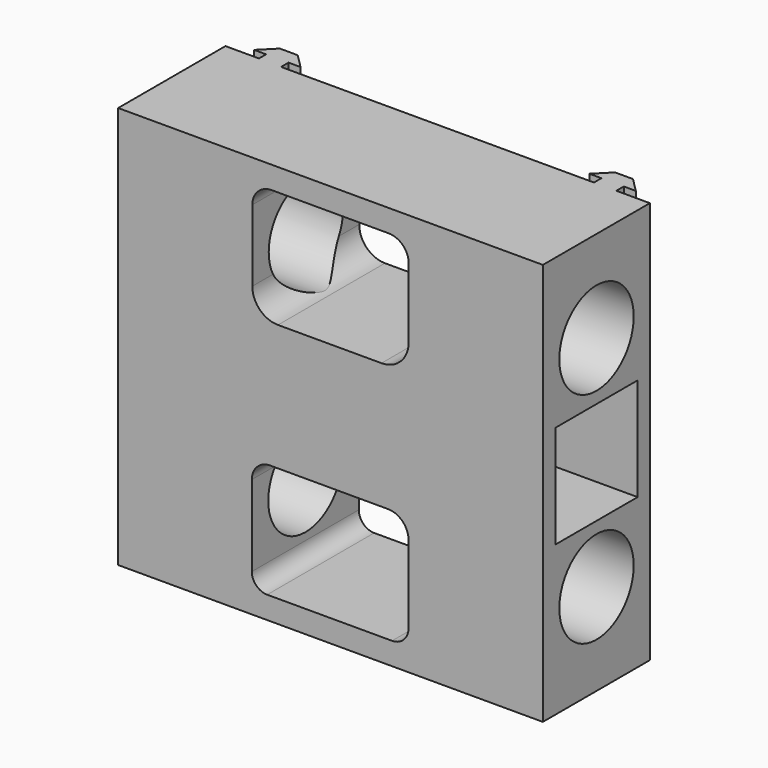
from build123d import *

# Parameters (mm, degrees)
PAD_DEPTH       = 90
SKETCH_R        = 5
SKETCH_R_2      = 1.5
SKETCH_R_3      = 10.4
POCKET_DEPTH    = 95
POCKET001_DEPTH = 32
SKETCH005_W     = 23
SKETCH005_H     = 23
POCKET002_DEPTH = 20
SKETCH006_W     = 23
SKETCH006_H     = 23
POCKET003_DEPTH = 20


with BuildPart() as part:
    # Sketch003 → Pad (new body)
    with BuildSketch(Plane.XY.offset(100)):
        Polygon((7.5, 0), (0, 0), (0, -30), (95, -30), (95, -0.086413), (87.5, -0.086413), (87.5, 2), (90.2, 2), (87, 5.2), (83, 5.2), (79.8, 2), (82.5, 2), (82.5, -0.086413), (12.5, -0.086413), (12.5, 2), (15.2, 2), (12, 5.2), (8, 5.2), (4.8, 2), (7.5, 2), align=None)
    extrude(amount=PAD_DEPTH)

    # Sketch (on Face4 of Pad) → Pocket (cut)
    with BuildSketch(Plane(origin=(95, 0, 100), x_dir=(0, 1, 0), z_dir=(1, 0, 0))):
        with Locations((-15, 45)):
            Circle(SKETCH_R)
        with Locations((-15, 52.5)):
            Circle(SKETCH_R_2)
        with Locations((-22.5, 45)):
            Circle(SKETCH_R_2)
        with Locations((-15, 37.5)):
            Circle(SKETCH_R_2)
        with Locations((-7.5, 45)):
            Circle(SKETCH_R_2)
        with Locations((-15, 20.5)):
            Circle(SKETCH_R_3)
        with Locations((-15, 69.5)):
            Circle(SKETCH_R_3)
    extrude(amount=-POCKET_DEPTH, mode=Mode.SUBTRACT)

    # Sketch004 (on Face7 of Pocket) → Pocket001 (cut)
    with BuildSketch(Plane(origin=(0, -30, 100), x_dir=(1, 0, 0), z_dir=(0, -1, 0))):
        with BuildLine():
            Line((30, 80.681485), (30, 64.654132))
            ThreePointArc((30, 64.654132), (31.683486, 60.589837), (35.747781, 58.906351))
            Line((35.747781, 58.906351), (58.899356, 58.906351))
            ThreePointArc((58.899356, 58.906351), (63.213163, 60.693188), (65, 65.006995))
            Line((65, 80.523747), (65, 65.006995))
            ThreePointArc((65, 80.523747), (63.688936, 83.688936), (60.523747, 85))
            Line((34.318515, 85), (60.523747, 85))
            ThreePointArc((34.318515, 85), (31.264864, 83.735136), (30, 80.681485))
        make_face()
        with BuildLine():
            Line((34.00557, 30.656874), (60.341932, 30.656874))
            ThreePointArc((64.957016, 26.04179), (63.605289, 29.305147), (60.341932, 30.656874))
            Line((64.957016, 8.697674), (64.957016, 26.04179))
            ThreePointArc((61.259342, 5), (63.873992, 6.083024), (64.957016, 8.697674))
            Line((33.329898, 5), (61.259342, 5))
            ThreePointArc((29.898488, 8.43141), (30.903525, 6.005037), (33.329898, 5))
            Line((29.898488, 8.43141), (29.898488, 26.549793))
            ThreePointArc((34.00557, 30.656874), (31.101424, 29.453938), (29.898488, 26.549793))
        make_face()
    extrude(amount=-POCKET001_DEPTH, mode=Mode.SUBTRACT)

    # Sketch005 (on Face3 of Pocket001) → Pocket002 (cut)
    with BuildSketch(Plane(origin=(0, 0, 100), x_dir=(0, -1, 0), z_dir=(-1, 0, 0))):
        with Locations((15, 45)):
            Rectangle(SKETCH005_W, SKETCH005_H)
    extrude(amount=-POCKET002_DEPTH, mode=Mode.SUBTRACT)

    # Sketch006 (on Face14 of Pocket002) → Pocket003 (cut)
    with BuildSketch(Plane(origin=(95, 0, 100), x_dir=(0, 1, 0), z_dir=(1, 0, 0))):
        with Locations((-15, 45)):
            Rectangle(SKETCH006_W, SKETCH006_H)
    extrude(amount=-POCKET003_DEPTH, mode=Mode.SUBTRACT)


solid = part.part
